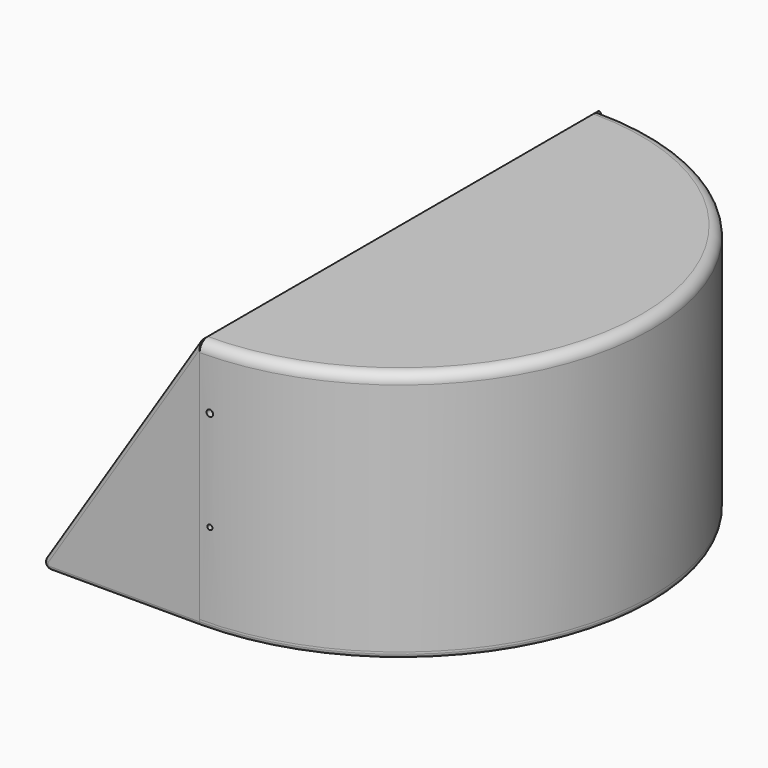
from build123d import *

# Parameters (mm, degrees)
REVOLUTION_ANGLE = -180
PAD_DEPTH        = 3
PAD001_DEPTH     = 100
SKETCH011_W      = 77
SKETCH011_H      = 3
PAD003_DEPTH     = 125
SKETCH006_W      = 250
SKETCH006_H      = 220
PAD002_DEPTH     = 3
POCKET003_DEPTH  = 150
POCKET_DEPTH     = 250
SKETCH014_W      = 20
SKETCH014_H      = 280
POCKET004_DEPTH  = 10
FILLET_R         = 5
FILLET001_R      = 3
PAD004_DEPTH     = 3
POCKET005_DEPTH  = 3
FILLET003_R      = 2
PAD005_DEPTH     = 3
PAD006_DEPTH     = 122
SKETCH019_R      = 1.611364
SKETCH019_R_2    = 1.215727
POCKET006_DEPTH  = 5
FILLET002_R      = 5


with BuildPart() as body:
    # Sketch → Revolution (revolve, symmetric)
    with BuildSketch(Plane.XZ) as revolution_sk:
        with BuildLine():
            ThreePointArc((110, 0), (77.781746, 77.781746), (0, 110))
            Line((0, 110), (0, 107))
            ThreePointArc((106.999766, 0.223706), (75.581292, 75.739476), (0, 107))
            Line((106.999766, 0.223706), (110, 0))
        make_face()
    revolve(axis=Axis((0, 0, 0), (0, 0, 1)), revolution_arc=REVOLUTION_ANGLE / 2)
    revolve(revolution_sk.sketch, axis=Axis((0, 0, 0), (0, 0, -1)), revolution_arc=REVOLUTION_ANGLE / 2)

    # Sketch002 → Pad (new body)
    with BuildSketch(Plane.XY):
        with BuildLine():
            Line((-130, -125), (0, -125))
            ThreePointArc((0, -125), (125, 0), (0, 125))
            Line((0, 125), (-130, 125))
            Line((-130, 125), (-130, -125))
        make_face()
    extrude(amount=PAD_DEPTH)

    # Sketch004 → Pad001 (join)
    with BuildSketch(Plane.YZ):
        with BuildLine():
            ThreePointArc((107, 0), (0, 107), (-107, 0))
            Line((-107, 0), (-110, 0))
            ThreePointArc((110, 0), (0, 110), (-110, 0))
            Line((107, 0), (110, 0))
        make_face()
    extrude(amount=-PAD001_DEPTH)

    # Sketch011 → Pad003 (join)
    with BuildSketch(Plane.XY):
        with Locations((-38.5, 123.5)):
            Rectangle(SKETCH011_W, SKETCH011_H)
        with Locations((-38.5, -123.5)):
            Rectangle(SKETCH011_W, SKETCH011_H)
    extrude(amount=PAD003_DEPTH)

    # Sketch006 (on DatumPlane) → Pad002 (join)
    with BuildSketch(Plane(origin=(0, 0, 125), x_dir=(0, 1, 0), z_dir=(0.842271, 0, -0.539054))):
        with Locations((0, -80)):
            Rectangle(SKETCH006_W, SKETCH006_H)
    extrude(amount=PAD002_DEPTH)

    # Sketch012 → Pocket003 (cut)
    with BuildSketch(Plane.YZ):
        with BuildLine():
            ThreePointArc((107, 0), (0, 107), (-107, 0))
            Line((107, 0), (-107, 0))
        make_face()
    extrude(amount=-POCKET003_DEPTH, mode=Mode.SUBTRACT)

    # Sketch009 → Groove (revolve, cut)
    with BuildSketch(Plane.XY):
        with BuildLine():
            Line((107, 0), (-200, 0))
            Line((-200, 0), (-200, -107))
            Line((-200, -107), (0, -107))
            ThreePointArc((0, -107), (75.660426, -75.660426), (107, 0))
        make_face()
    revolve(axis=Axis((0, 0, 0), (1, 0, 0)), mode=Mode.SUBTRACT)

    # Sketch013 → Pocket (cut, symmetric)
    with BuildSketch(Plane.XZ):
        Polygon((-70, -67.251988), (-198.394745, -67.251988), (-198.394745, 156.770523), (56.7411, 156.770523), (56.7411, 125), (0, 125), (-80, 0), (-70, 0), align=None)
    extrude(amount=POCKET_DEPTH, both=True, mode=Mode.SUBTRACT)

    # Sketch014 → Pocket004 (cut)
    with BuildSketch(Plane.XY.offset(125)):
        with Locations((10, 0)):
            Rectangle(SKETCH014_W, SKETCH014_H)
    extrude(amount=-POCKET004_DEPTH, mode=Mode.SUBTRACT)

    # Fillet
    fillet_edges = [body.edges().sort_by_distance(p)[0] for p in [
        (-11.52, 3e-06, 107),
    ]]
    fillet(fillet_edges, radius=FILLET_R)

    # Fillet001
    fillet001_edges = [body.edges().sort_by_distance(p)[0] for p in [
        (-80, 118.483252, 0),
        (-80, -118.483252, 0),
    ]]
    fillet(fillet001_edges, radius=FILLET001_R)

    # Sketch015 → Pad004 (join)
    with BuildSketch(Plane.XZ.offset(122)):
        Polygon((0, 110), (10, 105), (10, 85), (0, 80), (-5, 80), (-5, 110), align=None)
        Polygon((0, 60), (10, 55), (10, 35), (0, 30), (-5, 30), (-5, 60), align=None)
    pad004 = extrude(amount=-PAD004_DEPTH)

    # Sketch016 → Pocket005 (cut)
    with BuildSketch(Plane.XZ.offset(122)):
        Polygon((7.771281, 93.4), (7.771281, 96.6), (5, 98.2), (2.228719, 96.6), (2.228719, 93.4), (5, 91.8), align=None)
        Polygon((5, 41.8), (7.771281, 43.4), (7.771281, 46.6), (5, 48.2), (2.228719, 46.6), (2.228719, 43.4), align=None)
    pocket005 = extrude(amount=-POCKET005_DEPTH, mode=Mode.SUBTRACT)

    # Mirrored: Pad004 across XZ
    add(pad004.mirror(Plane.XZ))

    # Mirrored001: Pocket005 across XZ
    add(pocket005.mirror(Plane.XZ), mode=Mode.SUBTRACT)

    # Fillet003
    fillet003_edges = [body.edges().sort_by_distance(p)[0] for p in [
        (-38.522508, -125, 64.808581),
        (-38.522508, 125, 64.808581),
    ]]
    fillet(fillet003_edges, radius=FILLET003_R)


with BuildPart() as cover:
    # Sketch017 → Pad005 (new body)
    with BuildSketch(Plane.XY.offset(125)):
        with BuildLine():
            ThreePointArc((0, -125), (125, 0), (0, 125))
            Line((0, 125), (0, -125))
        make_face()
    extrude(amount=-PAD005_DEPTH)

    # Sketch018 → Pad006 (join)
    with BuildSketch(Plane.XY.offset(125)):
        with BuildLine():
            ThreePointArc((0, -122), (122, 0), (0, 122))
            Line((0, 125), (0, 122))
            ThreePointArc((0, -125), (125, 0), (0, 125))
            Line((0, -122), (0, -125))
        make_face()
    extrude(amount=-PAD006_DEPTH)

    # Sketch019 → Pocket006 (cut)
    with BuildSketch(Plane.XZ.offset(125)):
        with Locations((5, 95)):
            Circle(SKETCH019_R)
        with Locations((5, 45)):
            Circle(SKETCH019_R_2)
    pocket006 = extrude(amount=-POCKET006_DEPTH, mode=Mode.SUBTRACT)

    # Mirrored002: Pocket006 across XZ
    add(pocket006.mirror(Plane.XZ), mode=Mode.SUBTRACT)

    # Fillet002
    fillet002_edges = [cover.edges().sort_by_distance(p)[0] for p in [
        (125, 0, 125),
    ]]
    fillet(fillet002_edges, radius=FILLET002_R)


solid = Compound([body.part, cover.part])
